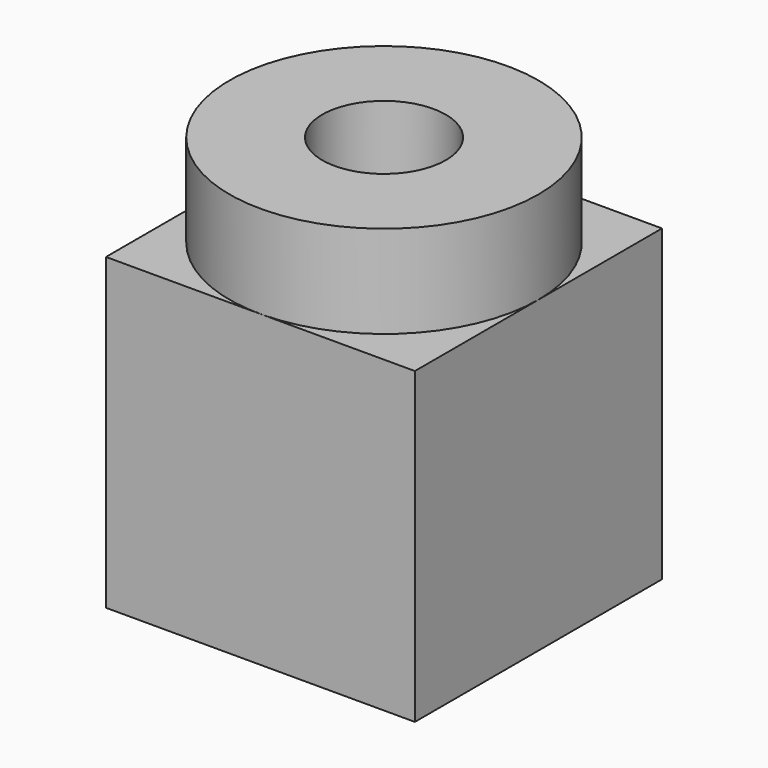
from build123d import *

# Parameters (mm, degrees)
BOX_W      = 10
BOX_H      = 10
BOX_DEPTH  = 10
TUBE_R     = 5
TUBE_R_2   = 2
TUBE_DEPTH = 10


with BuildPart() as cubo:
    # Box → Box (new body)
    with BuildSketch(Plane(origin=(-5, 5, 0), x_dir=(1, 0, 0), z_dir=(0, 0, 1))):
        with Locations((5, 5)):
            Rectangle(BOX_W, BOX_H)
    extrude(amount=BOX_DEPTH)


with BuildPart() as tube:
    # Tube → Tube (new body)
    with BuildSketch(Plane(origin=(0, 10, 3), x_dir=(1, 0, 0), z_dir=(0, 0, 1))):
        Circle(TUBE_R)
        Circle(TUBE_R_2, mode=Mode.SUBTRACT)
    extrude(amount=TUBE_DEPTH)


solid = Compound([cubo.part, tube.part])
